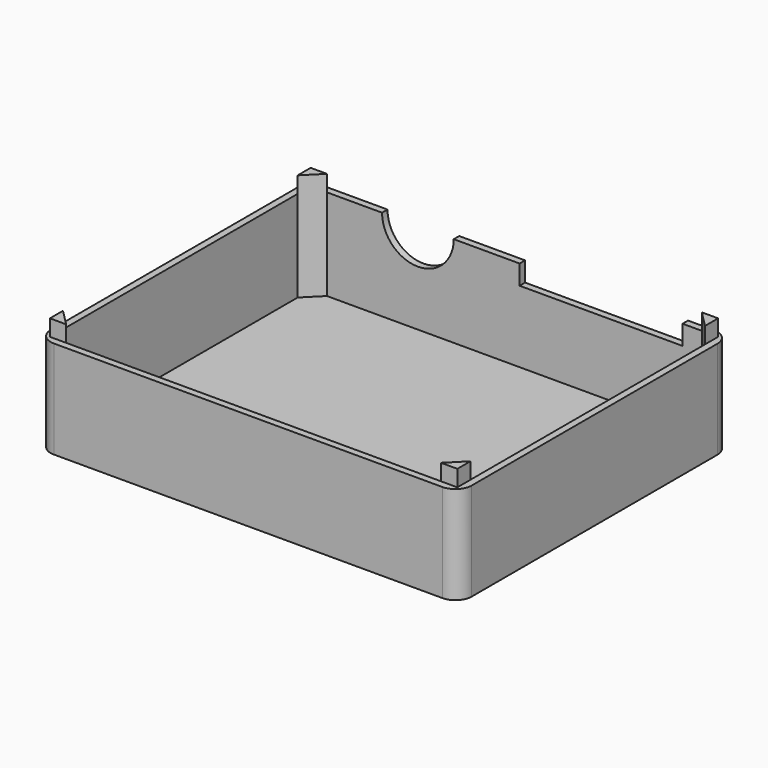
from build123d import *

# Parameters (mm, degrees)
F0_W     = 125
F0_H     = 100
F1_DEPTH = 2
F2_W     = 129.2
F2_H     = 104.2
F2_W_2   = 125
F2_H_2   = 100
F3_DEPTH = 30
F4_R     = 11
F4_W     = 50
F4_H     = 12
F5_DEPTH = 5
F7_DEPTH = 33
F8_R     = 5


with BuildPart() as f1:
    # F0 (on Top) → F1 (new body)
    with BuildSketch(Plane.XY):
        with Locations((62.5, -50)):
            Rectangle(F0_W, F0_H)
    extrude(amount=F1_DEPTH)

    # F2 (on Top) → F3 (join)
    with BuildSketch(Plane.XY):
        with Locations((62.5, -50)):
            Rectangle(F2_W, F2_H)
        with Locations((62.5, -50)):
            Rectangle(F2_W_2, F2_H_2, mode=Mode.SUBTRACT)
    extrude(amount=F3_DEPTH)

    # F4 (on face) → F5 (cut)
    with BuildSketch(Plane(origin=(0, 2.1, 0), x_dir=(-1, 0, 0), z_dir=(0, 1, 0))):
        with Locations((-32.9, 30)):
            Circle(F4_R)
        with Locations((-89.1, 30)):
            Rectangle(F4_W, F4_H)
    extrude(amount=-F5_DEPTH, mode=Mode.SUBTRACT)

    # F6 (on face) → F7 (join)
    with BuildSketch(Plane.XY.offset(2)):
        Polygon((5, 0), (0, 0), (0, -5), align=None)
        Polygon((125, -5), (125, 0), (120, 0), align=None)
        Polygon((120, -100), (125, -100), (125, -95), align=None)
        Polygon((0, -95), (0, -100), (5, -100), align=None)
    extrude(amount=F7_DEPTH)

    # F8
    f8_edges = [f1.edges().sort_by_distance(p)[0] for p in [
        (-2.1, -102.1, 15),
        (127.1, -102.1, 15),
        (127.1, 2.1, 15),
        (-2.1, 2.1, 15),
    ]]
    fillet(f8_edges, radius=F8_R)


solid = f1.part
